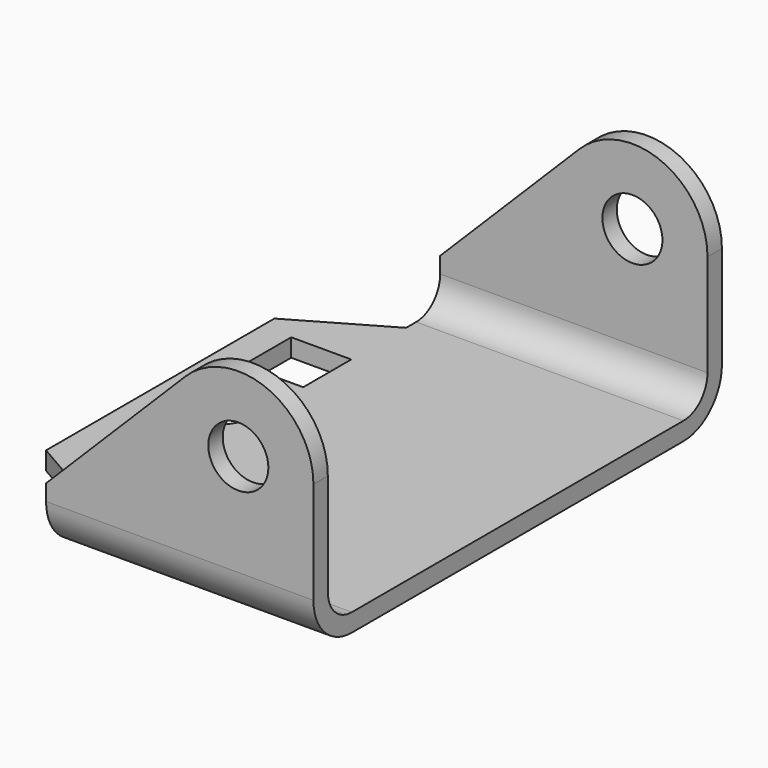
from build123d import *

# Parameters (mm, degrees)
PAD_DEPTH            = 119
THICKNESS_T          = -6
SKETCH001_W          = 300
SKETCH001_H          = 200
POCKET_DEPTH         = 85.001
POCKET_DEPTH_BACK    = -85.001
SKETCH002_R          = 10
SKETCH002_W          = 20
SKETCH002_H          = 20
POCKET001_DEPTH      = 6.001
POCKET001_DEPTH_BACK = -69.001
SKETCH003_R          = 10
POCKET002_DEPTH      = 170.001


with BuildPart() as part:
    # Sketch (on YZ_Plane of Origin) → Pad (new body)
    with BuildSketch(Plane.YZ):
        with BuildLine():
            Line((-85, 75), (85, 75))
            Line((85, 75), (85, 16))
            ThreePointArc((69, 0), (80.313708, 4.686292), (85, 16))
            Line((69, 0), (-69, 0))
            ThreePointArc((-85, 16), (-80.313708, 4.686292), (-69, 0))
            Line((-85, 16), (-85, 75))
        make_face()
    extrude(amount=-PAD_DEPTH)

    # Thickness
    thickness_openings = [part.faces().sort_by_distance(p)[0] for p in [
        (-119, 0, 37.794908),
        (-59.5, 0, 75),
        (0, 0, 37.794908),
    ]]
    offset(amount=THICKNESS_T, openings=thickness_openings)

    # Sketch001 (on XZ_Plane of Origin) → Pocket (cut, two sides)
    with BuildSketch(Plane.XZ) as pocket_sk:
        Rectangle(SKETCH001_W, SKETCH001_H)
        with BuildLine():
            Line((0, 0), (0, 50))
            ThreePointArc((0, 50), (-15.432914, 73.096988), (-42.67767, 67.67767))
            Line((-42.67767, 67.67767), (-89, 21.355339))
            Line((-89, 6), (-89, 21.355339))
            Line((-89, 6), (-119, 6))
            Line((-119, 6), (-119, 0))
            Line((-119, 0), (0, 0))
        make_face(mode=Mode.SUBTRACT)
    extrude(amount=-POCKET_DEPTH, mode=Mode.SUBTRACT)
    extrude(pocket_sk.sketch, amount=-POCKET_DEPTH_BACK, mode=Mode.SUBTRACT)

    # Sketch002 (on Face16 of Pocket) → Pocket001 (cut, two sides)
    with BuildSketch(Plane.XY.offset(6)) as pocket001_sk:
        with Locations((-99, 0)):
            Circle(SKETCH002_R)
        Polygon((-89, 64.820508), (-89, 100), (-169, 100), (-169, -100), (-89, -100), (-89, -64.820508), (-119, -47.5), (-119, 47.5), align=None)
        with Locations((-99, 32)):
            Rectangle(SKETCH002_W, SKETCH002_H)
        with Locations((-99, -32)):
            Rectangle(SKETCH002_W, SKETCH002_H)
    extrude(amount=-POCKET001_DEPTH, mode=Mode.SUBTRACT)
    extrude(pocket001_sk.sketch, amount=-POCKET001_DEPTH_BACK, mode=Mode.SUBTRACT)

    # Sketch003 (on Face14 of Pocket001) → Pocket002 (cut, through all)
    with BuildSketch(Plane.XZ.offset(85)):
        with Locations((-25, 50)):
            Circle(SKETCH003_R)
    extrude(amount=-POCKET002_DEPTH, mode=Mode.SUBTRACT)


solid = part.part
